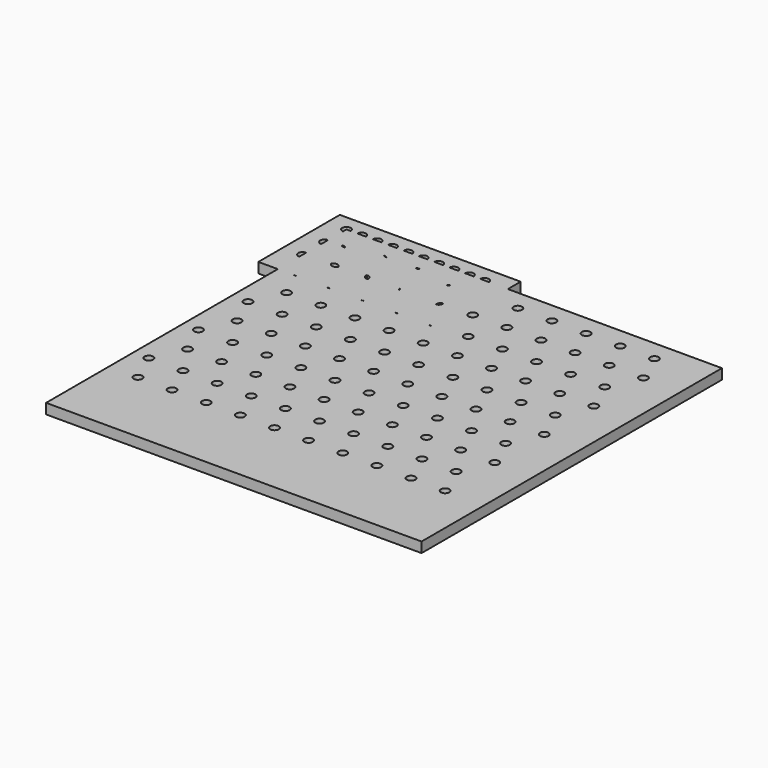
from build123d import *

# Parameters (mm, degrees)
F1_W     = 52.982054
F1_H     = 29.843491
F1_R     = 1.25
F2_DEPTH = 3
F0_W     = 110
F0_H     = 110
F0_R     = 1.25
F3_DEPTH = 3


with BuildPart() as f2:
    # F1 (on Top) → F2 (new body)
    with BuildSketch(Plane.XY):
        with Locations((20.792984, -10.225085)):
            Rectangle(F1_W, F1_H)
        with Locations((2.424658, -20.32995)):
            Circle(F1_R, mode=Mode.SUBTRACT)
        with Locations((6.636331, -19.874809)):
            Circle(F1_R, mode=Mode.SUBTRACT)
        with Locations((11.424658, -20.32995)):
            Circle(F1_R, mode=Mode.SUBTRACT)
        with Locations((15.636331, -19.874809)):
            Circle(F1_R, mode=Mode.SUBTRACT)
        with Locations((20.424658, -20.32995)):
            Circle(F1_R, mode=Mode.SUBTRACT)
        with Locations((-0.075342, -15.999823)):
            Circle(F1_R, mode=Mode.SUBTRACT)
        with Locations((4.399106, -15.999823)):
            Circle(F1_R, mode=Mode.SUBTRACT)
        with Locations((2.462329, -12.330038)):
            Circle(F1_R, mode=Mode.SUBTRACT)
        with Locations((6.674002, -11.874897)):
            Circle(F1_R, mode=Mode.SUBTRACT)
        with Locations((8.924658, -15.999823)):
            Circle(F1_R, mode=Mode.SUBTRACT)
        with Locations((13.399106, -15.999823)):
            Circle(F1_R, mode=Mode.SUBTRACT)
        with Locations((17.924658, -15.999823)):
            Circle(F1_R, mode=Mode.SUBTRACT)
        with Locations((11.462329, -12.330038)):
            Circle(F1_R, mode=Mode.SUBTRACT)
        with Locations((20.462329, -12.330038)):
            Circle(F1_R, mode=Mode.SUBTRACT)
        with Locations((15.674002, -11.874897)):
            Circle(F1_R, mode=Mode.SUBTRACT)
        with Locations((24.636331, -19.874809)):
            Circle(F1_R, mode=Mode.SUBTRACT)
        with Locations((29.424658, -20.32995)):
            Circle(F1_R, mode=Mode.SUBTRACT)
        with Locations((33.636331, -19.874809)):
            Circle(F1_R, mode=Mode.SUBTRACT)
        with Locations((38.424658, -20.32995)):
            Circle(F1_R, mode=Mode.SUBTRACT)
        with Locations((42.636331, -19.874809)):
            Circle(F1_R, mode=Mode.SUBTRACT)
        with Locations((22.399106, -15.999823)):
            Circle(F1_R, mode=Mode.SUBTRACT)
        with Locations((26.924658, -15.999823)):
            Circle(F1_R, mode=Mode.SUBTRACT)
        with Locations((31.399106, -15.999823)):
            Circle(F1_R, mode=Mode.SUBTRACT)
        with Locations((24.674002, -11.874897)):
            Circle(F1_R, mode=Mode.SUBTRACT)
        with Locations((29.462329, -12.330038)):
            Circle(F1_R, mode=Mode.SUBTRACT)
        with Locations((33.674002, -11.874897)):
            Circle(F1_R, mode=Mode.SUBTRACT)
        with Locations((35.924658, -15.999823)):
            Circle(F1_R, mode=Mode.SUBTRACT)
        with Locations((40.399106, -15.999823)):
            Circle(F1_R, mode=Mode.SUBTRACT)
        with Locations((38.462329, -12.330038)):
            Circle(F1_R, mode=Mode.SUBTRACT)
        with Locations((42.674002, -11.874897)):
            Circle(F1_R, mode=Mode.SUBTRACT)
        with Locations((-0.037671, -7.999911)):
            Circle(F1_R, mode=Mode.SUBTRACT)
        with Locations((4.436777, -7.999911)):
            Circle(F1_R, mode=Mode.SUBTRACT)
        with Locations((2.5, -4.330127)):
            Circle(F1_R, mode=Mode.SUBTRACT)
        with Locations((6.711673, -3.874986)):
            Circle(F1_R, mode=Mode.SUBTRACT)
        with Locations((8.962329, -7.999911)):
            Circle(F1_R, mode=Mode.SUBTRACT)
        with Locations((13.436777, -7.999911)):
            Circle(F1_R, mode=Mode.SUBTRACT)
        with Locations((17.962329, -7.999911)):
            Circle(F1_R, mode=Mode.SUBTRACT)
        with Locations((11.5, -4.330127)):
            Circle(F1_R, mode=Mode.SUBTRACT)
        with Locations((15.711673, -3.874986)):
            Circle(F1_R, mode=Mode.SUBTRACT)
        with Locations((20.5, -4.330127)):
            Circle(F1_R, mode=Mode.SUBTRACT)
        Circle(F1_R, mode=Mode.SUBTRACT)
        with Locations((4.474449, 0)):
            Circle(F1_R, mode=Mode.SUBTRACT)
        with Locations((9, 0)):
            Circle(F1_R, mode=Mode.SUBTRACT)
        with Locations((13.474449, 0)):
            Circle(F1_R, mode=Mode.SUBTRACT)
        with Locations((18, 0)):
            Circle(F1_R, mode=Mode.SUBTRACT)
        with Locations((22.436777, -7.999911)):
            Circle(F1_R, mode=Mode.SUBTRACT)
        with Locations((26.962329, -7.999911)):
            Circle(F1_R, mode=Mode.SUBTRACT)
        with Locations((31.436777, -7.999911)):
            Circle(F1_R, mode=Mode.SUBTRACT)
        with Locations((24.711673, -3.874986)):
            Circle(F1_R, mode=Mode.SUBTRACT)
        with Locations((29.5, -4.330127)):
            Circle(F1_R, mode=Mode.SUBTRACT)
        with Locations((33.711673, -3.874986)):
            Circle(F1_R, mode=Mode.SUBTRACT)
        with Locations((35.962329, -7.999911)):
            Circle(F1_R, mode=Mode.SUBTRACT)
        with Locations((40.436777, -7.999911)):
            Circle(F1_R, mode=Mode.SUBTRACT)
        with Locations((38.5, -4.330127)):
            Circle(F1_R, mode=Mode.SUBTRACT)
        with Locations((42.711673, -3.874986)):
            Circle(F1_R, mode=Mode.SUBTRACT)
        with Locations((22.474449, 0)):
            Circle(F1_R, mode=Mode.SUBTRACT)
        with Locations((27, 0)):
            Circle(F1_R, mode=Mode.SUBTRACT)
        with Locations((31.474449, 0)):
            Circle(F1_R, mode=Mode.SUBTRACT)
        with Locations((36, 0)):
            Circle(F1_R, mode=Mode.SUBTRACT)
        with Locations((40.474449, 0)):
            Circle(F1_R, mode=Mode.SUBTRACT)
    extrude(amount=F2_DEPTH)

    # F0 (on Top) → F3 (join)
    with BuildSketch(Plane.XY):
        with Locations((55, -55)):
            Rectangle(F0_W, F0_H)
        with Locations((8.516789, -86.998379)):
            Circle(F0_R, mode=Mode.SUBTRACT)
        with Locations((18.516789, -86.998379)):
            Circle(F0_R, mode=Mode.SUBTRACT)
        with Locations((28.516789, -86.998379)):
            Circle(F0_R, mode=Mode.SUBTRACT)
        with Locations((38.516789, -86.998379)):
            Circle(F0_R, mode=Mode.SUBTRACT)
        with Locations((48.516789, -86.998379)):
            Circle(F0_R, mode=Mode.SUBTRACT)
        with Locations((4.516789, -77.998379)):
            Circle(F0_R, mode=Mode.SUBTRACT)
        with Locations((8.637592, -68.998784)):
            Circle(F0_R, mode=Mode.SUBTRACT)
        with Locations((14.516789, -77.998379)):
            Circle(F0_R, mode=Mode.SUBTRACT)
        with Locations((24.516789, -77.998379)):
            Circle(F0_R, mode=Mode.SUBTRACT)
        with Locations((18.637592, -68.998784)):
            Circle(F0_R, mode=Mode.SUBTRACT)
        with Locations((4.637592, -59.998784)):
            Circle(F0_R, mode=Mode.SUBTRACT)
        with Locations((14.637592, -59.998784)):
            Circle(F0_R, mode=Mode.SUBTRACT)
        with Locations((24.637592, -59.998784)):
            Circle(F0_R, mode=Mode.SUBTRACT)
        with Locations((34.516789, -77.998379)):
            Circle(F0_R, mode=Mode.SUBTRACT)
        with Locations((28.637592, -68.998784)):
            Circle(F0_R, mode=Mode.SUBTRACT)
        with Locations((38.637592, -68.998784)):
            Circle(F0_R, mode=Mode.SUBTRACT)
        with Locations((44.516789, -77.998379)):
            Circle(F0_R, mode=Mode.SUBTRACT)
        with Locations((54.516789, -77.998379)):
            Circle(F0_R, mode=Mode.SUBTRACT)
        with Locations((48.637592, -68.998784)):
            Circle(F0_R, mode=Mode.SUBTRACT)
        with Locations((34.637592, -59.998784)):
            Circle(F0_R, mode=Mode.SUBTRACT)
        with Locations((44.637592, -59.998784)):
            Circle(F0_R, mode=Mode.SUBTRACT)
        with Locations((54.637592, -59.998784)):
            Circle(F0_R, mode=Mode.SUBTRACT)
        with Locations((58.516789, -86.998379)):
            Circle(F0_R, mode=Mode.SUBTRACT)
        with Locations((68.516789, -86.998379)):
            Circle(F0_R, mode=Mode.SUBTRACT)
        with Locations((78.516789, -86.998379)):
            Circle(F0_R, mode=Mode.SUBTRACT)
        with Locations((88.516789, -86.998379)):
            Circle(F0_R, mode=Mode.SUBTRACT)
        with Locations((98.516789, -86.998379)):
            Circle(F0_R, mode=Mode.SUBTRACT)
        with Locations((64.516789, -77.998379)):
            Circle(F0_R, mode=Mode.SUBTRACT)
        with Locations((58.637592, -68.998784)):
            Circle(F0_R, mode=Mode.SUBTRACT)
        with Locations((68.637592, -68.998784)):
            Circle(F0_R, mode=Mode.SUBTRACT)
        with Locations((74.516789, -77.998379)):
            Circle(F0_R, mode=Mode.SUBTRACT)
        with Locations((78.637592, -68.998784)):
            Circle(F0_R, mode=Mode.SUBTRACT)
        with Locations((64.637592, -59.998784)):
            Circle(F0_R, mode=Mode.SUBTRACT)
        with Locations((74.637592, -59.998784)):
            Circle(F0_R, mode=Mode.SUBTRACT)
        with Locations((84.516789, -77.998379)):
            Circle(F0_R, mode=Mode.SUBTRACT)
        with Locations((94.516789, -77.998379)):
            Circle(F0_R, mode=Mode.SUBTRACT)
        with Locations((88.637592, -68.998784)):
            Circle(F0_R, mode=Mode.SUBTRACT)
        with Locations((98.637592, -68.998784)):
            Circle(F0_R, mode=Mode.SUBTRACT)
        with Locations((84.637592, -59.998784)):
            Circle(F0_R, mode=Mode.SUBTRACT)
        with Locations((94.637592, -59.998784)):
            Circle(F0_R, mode=Mode.SUBTRACT)
        with Locations((8.758395, -50.999189)):
            Circle(F0_R, mode=Mode.SUBTRACT)
        with Locations((4.758395, -41.999189)):
            Circle(F0_R, mode=Mode.SUBTRACT)
        with Locations((18.758395, -50.999189)):
            Circle(F0_R, mode=Mode.SUBTRACT)
        with Locations((14.758395, -41.999189)):
            Circle(F0_R, mode=Mode.SUBTRACT)
        with Locations((24.758395, -41.999189)):
            Circle(F0_R, mode=Mode.SUBTRACT)
        with Locations((8.879197, -32.999595)):
            Circle(F0_R, mode=Mode.SUBTRACT)
        with Locations((18.879197, -32.999595)):
            Circle(F0_R, mode=Mode.SUBTRACT)
        with Locations((17.210109, -30.048797)):
            Circle(F0_R, mode=Mode.SUBTRACT)
        with Locations((28.758395, -50.999189)):
            Circle(F0_R, mode=Mode.SUBTRACT)
        with Locations((38.758395, -50.999189)):
            Circle(F0_R, mode=Mode.SUBTRACT)
        with Locations((34.758395, -41.999189)):
            Circle(F0_R, mode=Mode.SUBTRACT)
        with Locations((48.758395, -50.999189)):
            Circle(F0_R, mode=Mode.SUBTRACT)
        with Locations((44.758395, -41.999189)):
            Circle(F0_R, mode=Mode.SUBTRACT)
        with Locations((54.758395, -41.999189)):
            Circle(F0_R, mode=Mode.SUBTRACT)
        with Locations((28.879197, -32.999595)):
            Circle(F0_R, mode=Mode.SUBTRACT)
        with Locations((38.879197, -32.999595)):
            Circle(F0_R, mode=Mode.SUBTRACT)
        with Locations((38.989589, -29.058821)):
            Circle(F0_R, mode=Mode.SUBTRACT)
        with Locations((48.879197, -32.999595)):
            Circle(F0_R, mode=Mode.SUBTRACT)
        with Locations((4.879197, -23.999595)):
            Circle(F0_R, mode=Mode.SUBTRACT)
        with Locations((9, -15)):
            Circle(F0_R, mode=Mode.SUBTRACT)
        with Locations((14.879197, -23.999595)):
            Circle(F0_R, mode=Mode.SUBTRACT)
        with Locations((24.879197, -23.999595)):
            Circle(F0_R, mode=Mode.SUBTRACT)
        with Locations((19, -15)):
            Circle(F0_R, mode=Mode.SUBTRACT)
        with Locations((5, -6)):
            Circle(F0_R, mode=Mode.SUBTRACT)
        with Locations((15, -6)):
            Circle(F0_R, mode=Mode.SUBTRACT)
        with Locations((25, -6)):
            Circle(F0_R, mode=Mode.SUBTRACT)
        with Locations((34.879197, -23.999595)):
            Circle(F0_R, mode=Mode.SUBTRACT)
        with Locations((29, -15)):
            Circle(F0_R, mode=Mode.SUBTRACT)
        with Locations((39, -15)):
            Circle(F0_R, mode=Mode.SUBTRACT)
        with Locations((44.879197, -23.999595)):
            Circle(F0_R, mode=Mode.SUBTRACT)
        with Locations((54.879197, -23.999595)):
            Circle(F0_R, mode=Mode.SUBTRACT)
        with Locations((49, -15)):
            Circle(F0_R, mode=Mode.SUBTRACT)
        with Locations((35, -6)):
            Circle(F0_R, mode=Mode.SUBTRACT)
        with Locations((45, -6)):
            Circle(F0_R, mode=Mode.SUBTRACT)
        with Locations((58.758395, -50.999189)):
            Circle(F0_R, mode=Mode.SUBTRACT)
        with Locations((64.758395, -41.999189)):
            Circle(F0_R, mode=Mode.SUBTRACT)
        with Locations((68.758395, -50.999189)):
            Circle(F0_R, mode=Mode.SUBTRACT)
        with Locations((78.758395, -50.999189)):
            Circle(F0_R, mode=Mode.SUBTRACT)
        with Locations((74.758395, -41.999189)):
            Circle(F0_R, mode=Mode.SUBTRACT)
        with Locations((58.879197, -32.999595)):
            Circle(F0_R, mode=Mode.SUBTRACT)
        with Locations((68.879197, -32.999595)):
            Circle(F0_R, mode=Mode.SUBTRACT)
        with Locations((78.879197, -32.999595)):
            Circle(F0_R, mode=Mode.SUBTRACT)
        with Locations((88.758395, -50.999189)):
            Circle(F0_R, mode=Mode.SUBTRACT)
        with Locations((84.758395, -41.999189)):
            Circle(F0_R, mode=Mode.SUBTRACT)
        with Locations((94.758395, -41.999189)):
            Circle(F0_R, mode=Mode.SUBTRACT)
        with Locations((98.758395, -50.999189)):
            Circle(F0_R, mode=Mode.SUBTRACT)
        with Locations((88.879197, -32.999595)):
            Circle(F0_R, mode=Mode.SUBTRACT)
        with Locations((98.879197, -32.999595)):
            Circle(F0_R, mode=Mode.SUBTRACT)
        with Locations((64.879197, -23.999595)):
            Circle(F0_R, mode=Mode.SUBTRACT)
        with Locations((59, -15)):
            Circle(F0_R, mode=Mode.SUBTRACT)
        with Locations((74.879197, -23.999595)):
            Circle(F0_R, mode=Mode.SUBTRACT)
        with Locations((69, -15)):
            Circle(F0_R, mode=Mode.SUBTRACT)
        with Locations((79, -15)):
            Circle(F0_R, mode=Mode.SUBTRACT)
        with Locations((55, -6)):
            Circle(F0_R, mode=Mode.SUBTRACT)
        with Locations((65, -6)):
            Circle(F0_R, mode=Mode.SUBTRACT)
        with Locations((75, -6)):
            Circle(F0_R, mode=Mode.SUBTRACT)
        with Locations((84.879197, -23.999595)):
            Circle(F0_R, mode=Mode.SUBTRACT)
        with Locations((94.879197, -23.999595)):
            Circle(F0_R, mode=Mode.SUBTRACT)
        with Locations((89, -15)):
            Circle(F0_R, mode=Mode.SUBTRACT)
        with Locations((99, -15)):
            Circle(F0_R, mode=Mode.SUBTRACT)
        with Locations((85, -6)):
            Circle(F0_R, mode=Mode.SUBTRACT)
        with Locations((95, -6)):
            Circle(F0_R, mode=Mode.SUBTRACT)
        with Locations((38.989589, -29.058821)):
            Circle(F0_R)
        with Locations((17.210109, -30.048797)):
            Circle(F0_R)
    extrude(amount=F3_DEPTH)


solid = f2.part
